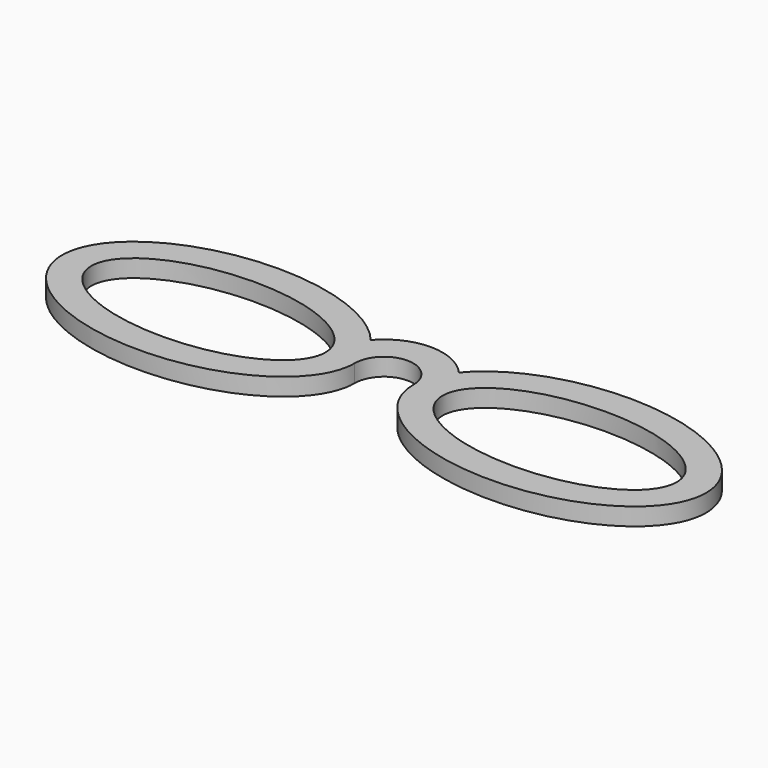
from build123d import *

# Parameters (mm, degrees)
F1_DEPTH = 3


with BuildPart() as f1:
    # F0 (on Top) → F1 (new body)
    with BuildSketch(Plane.XY):
        with BuildLine():
            ThreePointArc((7.5320302372, 6.5778811563), (0, 10), (-7.5320302372, 6.5778811563))
            add(Edge.make_bspline(
                [(-7.5320302372, 6.5778811563), (-23.5823321737, 26.3140801556), (-48.38466386, 10.1647178275), (-73.1869955463, -5.9846445007), (-39.0934977731, -13.9725082705), (-5, -21.9603720404), (-5, 0)],
                knots=[0.4539572467, 0.4539572467, 0.4539572467, 2.3970332669, 2.3970332669, 4.340109287, 4.340109287, 6.2831853072, 6.2831853072, 6.2831853072], degree=2, weights=[1, 0.5640301805, 1, 0.5640301805, 1, 0.5640301805, 1]))
            ThreePointArc((-5, 0), (0, 5), (5, 0))
            add(Edge.make_bspline(
                [(5, 0), (5, -21.9603720404), (39.0934977731, -13.9725082705), (73.1869955463, -5.9846445007), (48.38466386, 10.1647178275), (23.5823321737, 26.3140801556), (7.5320302372, 6.5778811563)],
                knots=[0, 0, 0, 1.9430760202, 1.9430760202, 3.8861520403, 3.8861520403, 5.8292280605, 5.8292280605, 5.8292280605], degree=2, weights=[1, 0.5640301805, 1, 0.5640301805, 1, 0.5640301805, 1]))
        make_face()
        with BuildLine():
            add(Edge.make_bspline(
                [(-10, 0), (-10, 17.3205080757), (-40, 8.6602540378), (-70, 0), (-40, -8.6602540378), (-10, -17.3205080757), (-10, 0)],
                knots=[0, 0, 0, 2.0943951024, 2.0943951024, 4.1887902048, 4.1887902048, 6.2831853072, 6.2831853072, 6.2831853072], degree=2, weights=[1, 0.5, 1, 0.5, 1, 0.5, 1]))
        make_face(mode=Mode.SUBTRACT)
        with BuildLine():
            add(Edge.make_bspline(
                [(10, 0), (10, -17.3205080757), (40, -8.6602540378), (70, 0), (40, 8.6602540378), (10, 17.3205080757), (10, 0)],
                knots=[0, 0, 0, 2.0943951024, 2.0943951024, 4.1887902048, 4.1887902048, 6.2831853072, 6.2831853072, 6.2831853072], degree=2, weights=[1, 0.5, 1, 0.5, 1, 0.5, 1]))
        make_face(mode=Mode.SUBTRACT)
    extrude(amount=F1_DEPTH)


solid = f1.part
